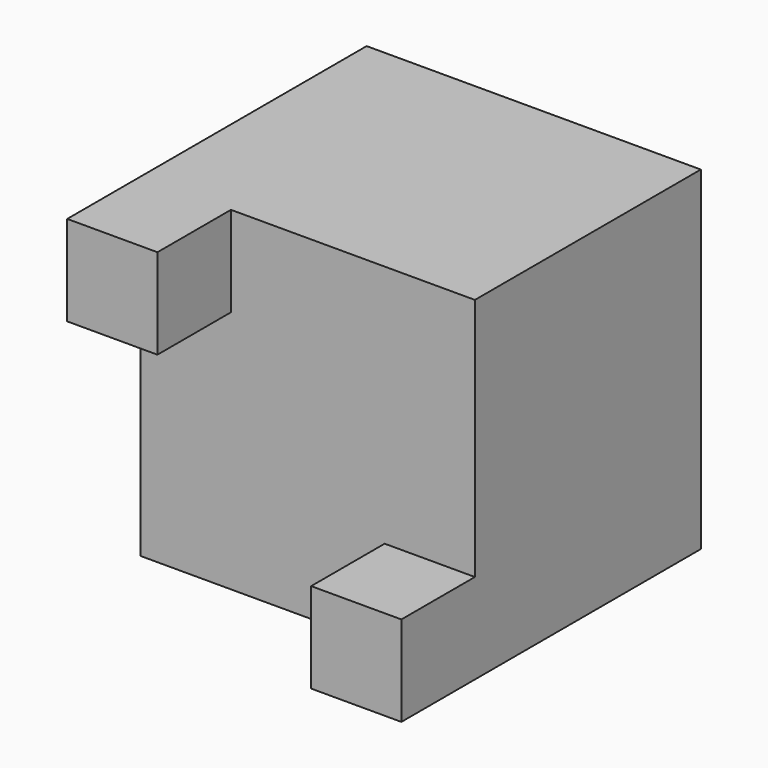
from build123d import *

# Parameters (mm, degrees)
F0_W       = 50.8
F0_H       = 50.8
F1_DEPTH   = 24.892
F2_W       = 13.716
F2_H       = 13.716
F3_DEPTH   = 13.97
F5_W       = 50.8
F5_H       = 50.8
F1_FACE1_W = 50.8
F1_FACE1_H = 50.8
F6_DEPTH   = 18.034


with BuildPart() as f1:
    # F0 (on Front) → F1 (new body)
    with BuildSketch(Plane.XZ):
        with Locations((-25.4, 25.4)):
            Rectangle(F0_W, F0_H)
    extrude(amount=-F1_DEPTH)

    # F2 (on face) → F3 (join)
    with BuildSketch(Plane.XZ):
        with Locations((-43.942, 43.942)):
            Rectangle(F2_W, F2_H)
        with Locations((-6.858, 6.858)):
            Rectangle(F2_W, F2_H)
    extrude(amount=F3_DEPTH)

    # F5 (on face) + F4 (on face) + F1_face1 (on face) → F6 (join, symmetric)
    with BuildSketch(Plane(origin=(0, 24.892, 0), x_dir=(-1, 0, 0), z_dir=(0, 1, 0))):
        with Locations((25.4, 25.4)):
            Rectangle(F5_W, F5_H)
    with BuildSketch(Plane(origin=(0, 24.892, 0), x_dir=(-1, 0, 0), z_dir=(0, 1, 0))):
        Polygon((13.716, 0), (37.084, 0), (37.084, 13.5469082743), (50.8, 13.5469082743), (50.8, 36.3148450851), (37.084, 36.3148450851), (37.084, 50.8), (13.716, 50.8), (13.716, 35.1472571492), (0, 35.1472571492), (0, 12.9631143063), (13.716, 12.9631143063), align=None)
    with BuildSketch(Plane(origin=(-25.4, 24.892, 25.4), x_dir=(1, 0, 0), z_dir=(0, 1, 0))):
        Rectangle(F1_FACE1_W, F1_FACE1_H)
    extrude(amount=F6_DEPTH, both=True)


solid = f1.part
